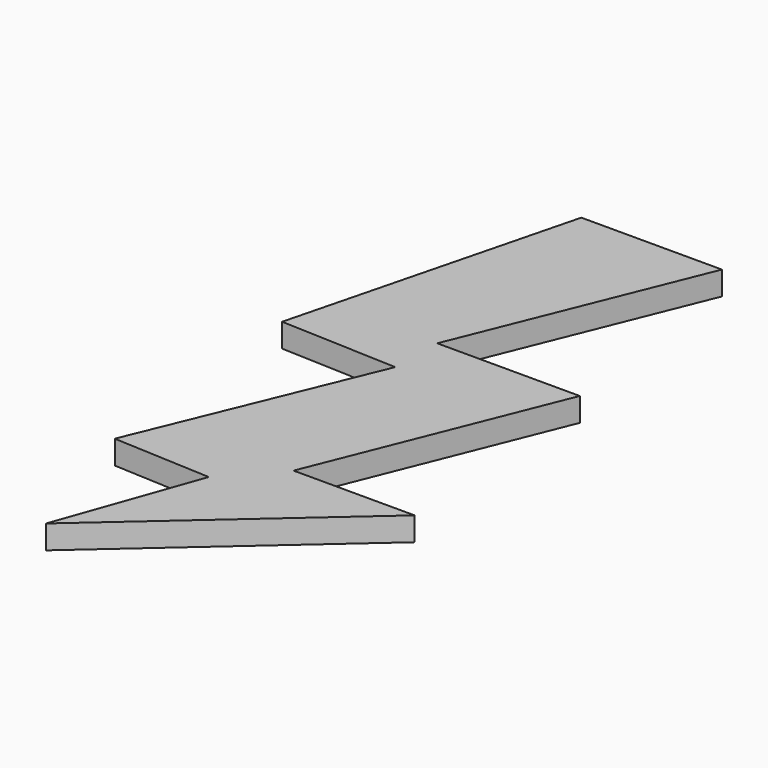
from build123d import *

# Parameters (mm, degrees)
PAD_DEPTH = 5


with BuildPart() as part:
    # Sketch → Pad (new body)
    with BuildSketch(Plane.XY):
        Polygon((19.936884, 69.720406), (49.618454, 69.720406), (29.418491, 19.838875), (59.51231, 19.838875), (39.312347, -30.454897), (64.871475, -30.454897), (19.247053, -70.676323), (29.820883, -40.968868), (9.176726, -39.961845), (29.317373, 8.879212), (4.645083, 9.886245), align=None)
    extrude(amount=PAD_DEPTH)


solid = part.part
